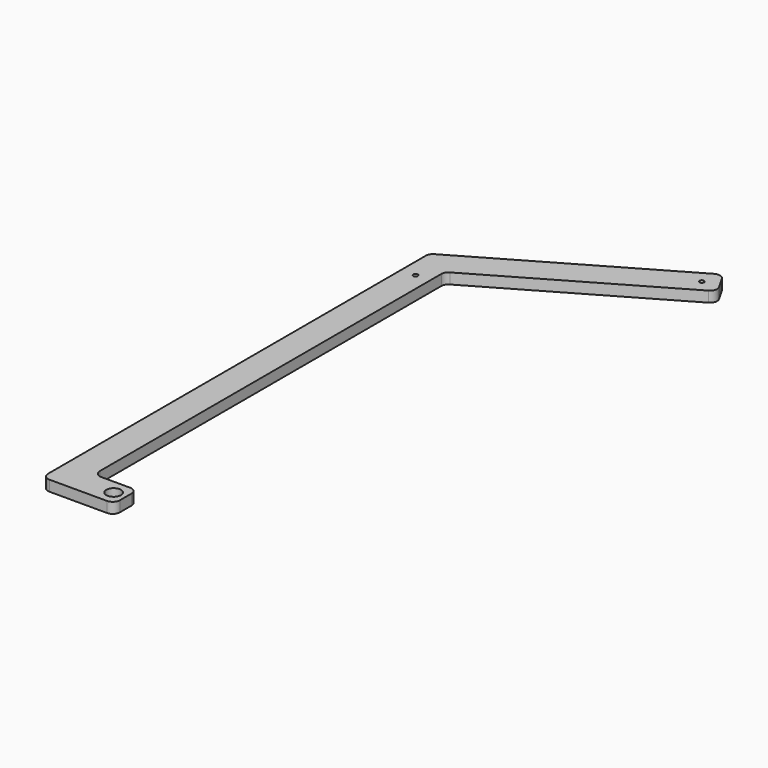
from build123d import *

# Parameters (mm, degrees)
PAD_DEPTH     = 7.4
FILLET_R      = 5
SKETCH001_R   = 1.6
SKETCH001_R_2 = 5.1
POCKET_DEPTH  = 7.401


with BuildPart() as part:
    # Sketch → Pad (new body)
    with BuildSketch(Plane.XY):
        Polygon((90, 417.320508), (100, 400), (-30, 324.944465), (-30, 20), (0, 20), (0, 0), (-50, 0), (-50, 336.49147), align=None)
    extrude(amount=PAD_DEPTH)

    # Fillet
    fillet_edges = [part.edges().sort_by_distance(p)[0] for p in [
        (0, 0, 3.7),
        (0, 20, 3.7),
        (-50, 0, 3.7),
        (-30, 324.944465, 3.7),
        (100, 400, 3.7),
        (-30, 20, 3.7),
        (90, 417.320508, 3.7),
        (-50, 336.49147, 3.7),
    ]]
    fillet(fillet_edges, radius=FILLET_R)

    # Sketch001 (on Face5 of Fillet) → Pocket (cut, through all)
    with BuildSketch(Plane.XY.offset(7.4)):
        with Locations((86.1294, 403.538811)):
            Circle(SKETCH001_R)
        with Locations((-40, 312.17984)):
            Circle(SKETCH001_R)
        with Locations((-8.399299, 10)):
            Circle(SKETCH001_R_2)
    extrude(amount=-POCKET_DEPTH, mode=Mode.SUBTRACT)


solid = part.part
